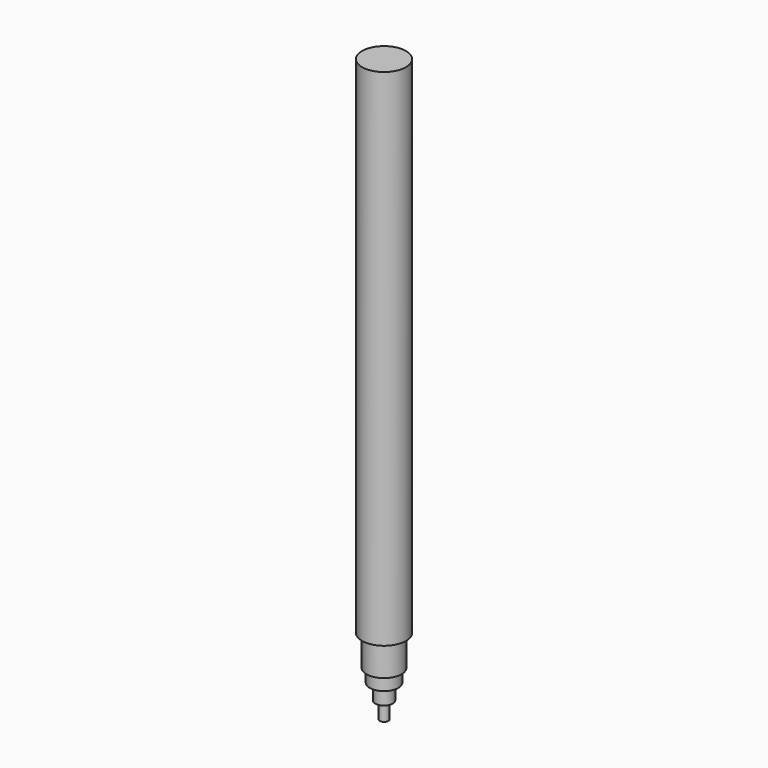
from build123d import *

# Parameters (mm, degrees)
F0_R          = 5
F1_DEPTH      = 70
F1_DEPTH_BACK = 45
F2_R          = 4
F3_DEPTH      = 7
F4_R          = 3.25
F5_DEPTH      = 3
F6_R          = 2
F7_DEPTH      = 3.54
F8_R          = 1
F9_DEPTH      = 3.8


with BuildPart() as f1:
    # F0 (on Top) → F1 (new body, two sides)
    with BuildSketch(Plane.XY) as f1_sk:
        Circle(F0_R)
    extrude(amount=F1_DEPTH)
    extrude(f1_sk.sketch, amount=-F1_DEPTH_BACK)

    # F2 (on face) → F3 (join)
    with BuildSketch(Plane(origin=(0, 0, -45), x_dir=(1, 0, 0), z_dir=(0, 0, -1))):
        Circle(F2_R)
    extrude(amount=F3_DEPTH)

    # F4 (on face) → F5 (join)
    with BuildSketch(Plane(origin=(0, 0, -52), x_dir=(1, 0, 0), z_dir=(0, 0, -1))):
        Circle(F4_R)
    extrude(amount=F5_DEPTH)

    # F6 (on face) → F7 (join)
    with BuildSketch(Plane(origin=(0, 0, -55), x_dir=(1, 0, 0), z_dir=(0, 0, -1))):
        Circle(F6_R)
    extrude(amount=F7_DEPTH)

    # F8 (on face) → F9 (join)
    with BuildSketch(Plane(origin=(0, 0, -58.54), x_dir=(1, 0, 0), z_dir=(0, 0, -1))):
        Circle(F8_R)
    extrude(amount=F9_DEPTH)


solid = f1.part
